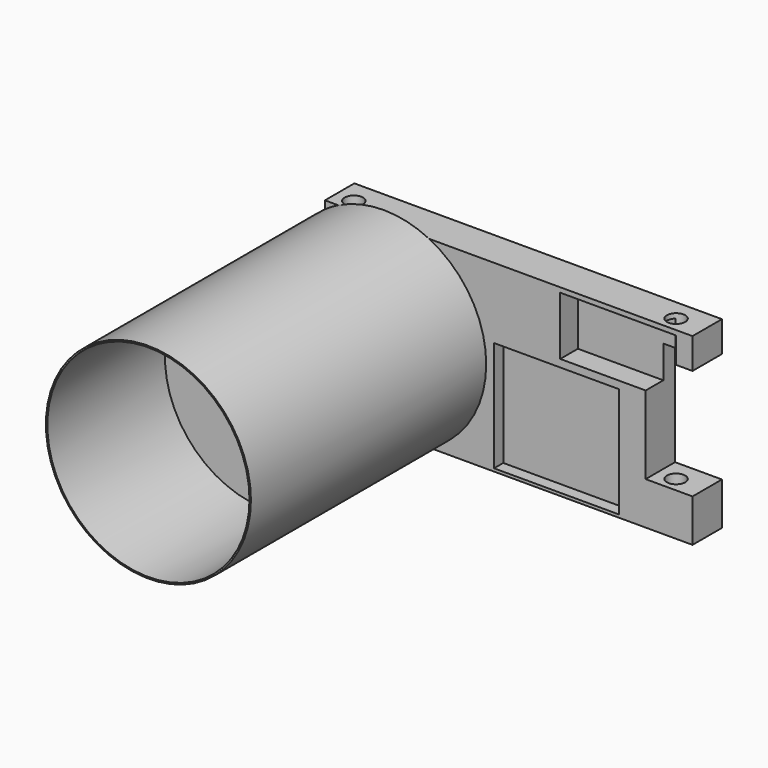
from build123d import *

# Parameters (mm, degrees)
F0_W      = 127
F0_H      = 63.5
F1_DEPTH  = 12.7
F2_W      = 43.18
F2_H      = 38.1
F3_DEPTH  = 4
F4_W      = 39.997619
F4_H      = 20.153031
F5_DEPTH  = 7.62
F6_R      = 3.171763
F7_DEPTH  = 63.501
F8_R      = 3.175
F9_DEPTH  = 63.501
F10_W     = 32.382142
F10_H     = 38.156119
F11_DEPTH = 12.701
F12_W     = 40.605094
F12_H     = 44.755168
F13_DEPTH = 12.701
F14_R     = 35.422098
F15_DEPTH = 101.6
F16_R     = 34.925
F17_DEPTH = 50.8


with BuildPart() as f1:
    # F0 (on Front) → F1 (new body)
    with BuildSketch(Plane.XZ):
        Rectangle(F0_W, F0_H)
    extrude(amount=F1_DEPTH)

    # F2 (on face) → F3 (cut)
    with BuildSketch(Plane.XZ.offset(12.7)):
        with Locations((16.51, -11.7)):
            Rectangle(F2_W, F2_H)
    extrude(amount=-F3_DEPTH, mode=Mode.SUBTRACT)

    # F4 (on face) → F5 (cut)
    with BuildSketch(Plane.XZ.offset(12.7)):
        with Locations((37.80372, 20.028367)):
            Rectangle(F4_W, F4_H)
    extrude(amount=-F5_DEPTH, mode=Mode.SUBTRACT)

    # F6 (on face) → F7 (cut, through all)
    with BuildSketch(Plane(origin=(0, 0, -31.75), x_dir=(1, 0, 0), z_dir=(0, 0, -1))):
        with Locations((53.637695, 7.481154)):
            Circle(F6_R)
    extrude(amount=-F7_DEPTH, mode=Mode.SUBTRACT)

    # F8 (on face) → F9 (cut, through all)
    with BuildSketch(Plane(origin=(0, 0, -31.75), x_dir=(1, 0, 0), z_dir=(0, 0, -1))):
        with Locations((-57.188451, 8.090043)):
            Circle(F8_R)
    extrude(amount=-F9_DEPTH, mode=Mode.SUBTRACT)

    # F10 (on face) → F11 (cut, through all)
    with BuildSketch(Plane(origin=(0, 0, 0), x_dir=(-1, 0, 0), z_dir=(0, 1, 0))):
        with Locations((-63.5, 2.069221)):
            Rectangle(F10_W, F10_H)
    extrude(amount=-F11_DEPTH, mode=Mode.SUBTRACT)

    # F12 (on face) → F13 (cut, through all)
    with BuildSketch(Plane.XZ.offset(12.7)):
        with Locations((-63.5, 0)):
            Rectangle(F12_W, F12_H)
    extrude(amount=-F13_DEPTH, mode=Mode.SUBTRACT)

    # F14 (on face) → F15 (join)
    with BuildSketch(Plane.XZ.offset(12.7)):
        with Locations((-43.197453, 0)):
            Circle(F14_R)
    extrude(amount=F15_DEPTH)

    # F16 (on face) → F17 (cut)
    with BuildSketch(Plane.XZ.offset(114.3)):
        with Locations((-43.197453, 0)):
            Circle(F16_R)
    extrude(amount=-F17_DEPTH, mode=Mode.SUBTRACT)


solid = f1.part
